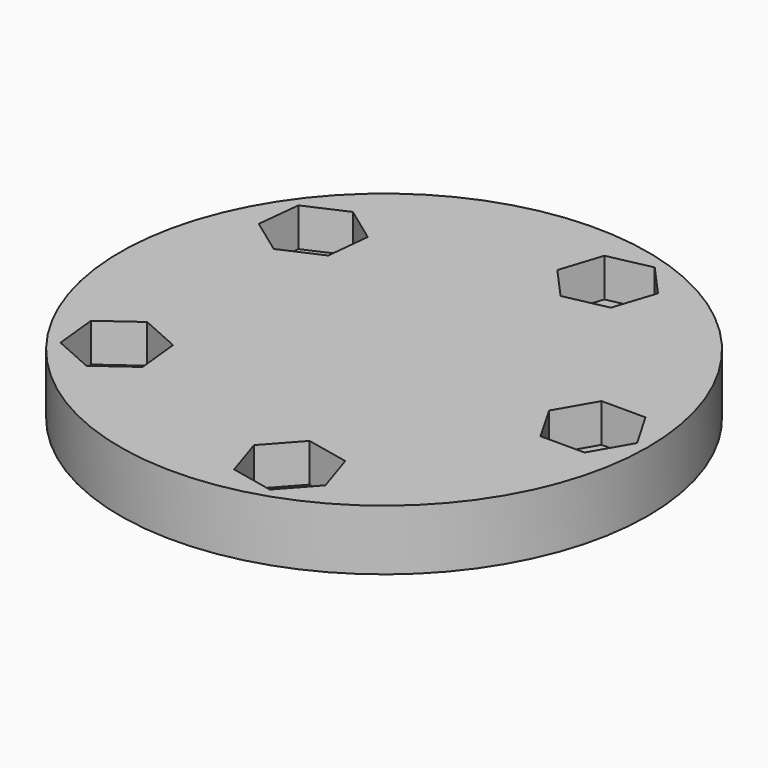
from build123d import *

# Parameters (mm, degrees)
CYLINDER012_R     = 14.5
CYLINDER012_DEPTH = 1
PAD_DEPTH         = 3.5
CYLINDER011_R     = 2.25
CYLINDER011_DEPTH = 10
ARRAY002_COUNT    = 5
CYLINDER010_R     = 24
CYLINDER010_DEPTH = 5.5


with BuildPart() as cylinder012:
    # Cylinder012 → Cylinder012 (new body)
    with BuildSketch(Plane.XY.offset(20)):
        Circle(CYLINDER012_R)
    extrude(amount=CYLINDER012_DEPTH)


with BuildPart() as obj1:
    # Sketch → Pad (new body)
    with BuildSketch(Plane.XY):
        Polygon((4, 0), (2, 3.464102), (-2, 3.464102), (-4, 0), (-2, -3.464102), (2, -3.464102), align=None)
    extrude(amount=PAD_DEPTH)


with BuildPart() as obj1_1:
    # Body placement: moved
    add(obj1.part.moved(Location((19, 0, 22))))


with BuildPart() as array002:
    # Cylinder011 → Cylinder011 (new body)
    with BuildSketch(Plane(origin=(19, 0, 20), x_dir=(1, 0, 0), z_dir=(0, 0, 1))):
        Circle(CYLINDER011_R)
    extrude(amount=CYLINDER011_DEPTH)

    # Fusion003: union obj1
    add(obj1_1.part)

    # Array002: Array002 ×5 about axis
    array002_axis = Axis((0, 0, 0), (0, 0, 1))


with BuildPart() as array002_1:
    add(array002.part)
    for i in range(1, ARRAY002_COUNT):
        add(array002.part.rotate(array002_axis, i * 360 / ARRAY002_COUNT))


with BuildPart() as cut006:
    # Cylinder010 → Cylinder010 (new body)
    with BuildSketch(Plane.XY.offset(20)):
        Circle(CYLINDER010_R)
    extrude(amount=CYLINDER010_DEPTH)

    # Cut005: cut Array002
    add(array002_1.part, mode=Mode.SUBTRACT)

    # Cut006: cut Cylinder012
    add(cylinder012.part, mode=Mode.SUBTRACT)


solid = cut006.part
